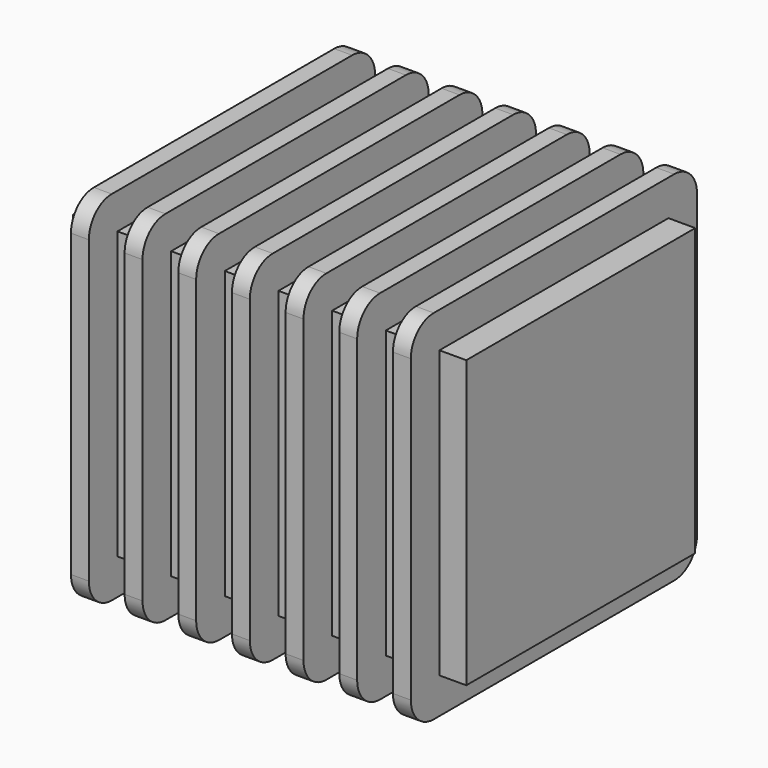
from build123d import *

# Parameters (mm, degrees)
F0_W      = 127
F0_H      = 50.8
F1_DEPTH  = 25.4
F3_DEPTH  = 31.75
F4_R      = 5.08
F5_R      = 5.08
F6_R      = 5.08
F7_R      = 5.08
F9_DEPTH  = 25.4
F8_W      = 57.15
F8_H      = 25.4
F10_DEPTH = 25.4
F11_W     = 57.15
F11_H     = 25.4
F12_DEPTH = 25.4
F13_DEPTH = 25.4
F14_R     = 5.08


with BuildPart() as f1:
    # F0 (on Front) → F1 (new body, symmetric)
    with BuildSketch(Plane.XZ):
        Rectangle(F0_W, F0_H)
    extrude(amount=F1_DEPTH, both=True)

    # F2 (on Front) → F3 (join, symmetric)
    with BuildSketch(Plane.XZ):
        Polygon((55.5625, 31.75), (55.5625, 0), (55.5625, -31.75), (58.7375, -31.75), (58.7375, 31.75), align=None)
        Polygon((46.0375, 31.75), (46.0375, 0), (47.625, 0), (49.2125, 0), (49.2125, 31.75), align=None)
        Polygon((36.5125, 31.75), (36.5125, 0), (38.1, 0), (39.6875, 0), (39.6875, 31.75), align=None)
        Polygon((26.9875, 31.75), (26.9875, 0), (28.575, 0), (30.1625, 0), (30.1625, 31.75), align=None)
        Polygon((17.4625, 31.75), (17.4625, 0), (19.05, 0), (20.6375, 0), (20.6375, 31.75), align=None)
        Polygon((7.9375, 31.75), (7.9375, 0), (9.525, 0), (11.1125, 0), (11.1125, 31.75), align=None)
        Polygon((1.5875, 31.75), (-1.5875, 31.75), (-1.5875, -31.75), (1.5875, -31.75), (1.5875, 0), align=None)
        Polygon((9.525, 0), (7.9375, 0), (7.9375, -31.75), (11.1125, -31.75), (11.1125, 0), align=None)
        Polygon((19.05, 0), (17.4625, 0), (17.4625, -31.75), (20.6375, -31.75), (20.6375, 0), align=None)
        Polygon((28.575, 0), (26.9875, 0), (26.9875, -31.75), (30.1625, -31.75), (30.1625, 0), align=None)
        Polygon((38.1, 0), (36.5125, 0), (36.5125, -31.75), (39.6875, -31.75), (39.6875, 0), align=None)
        Polygon((47.625, 0), (46.0375, 0), (46.0375, -31.75), (49.2125, -31.75), (49.2125, 0), align=None)
    extrude(amount=F3_DEPTH, both=True)

    # F4
    f4_edges = [f1.edges().sort_by_distance(p)[0] for p in [
        (0, -31.75, 31.75),
        (9.525, -31.75, 31.75),
        (19.05, -31.75, 31.75),
        (28.575, -31.75, 31.75),
        (38.1, -31.75, 31.75),
        (47.625, -31.75, 31.75),
        (57.15, -31.75, 31.75),
    ]]
    fillet(f4_edges, radius=F4_R)

    # F5
    f5_edges = [f1.edges().sort_by_distance(p)[0] for p in [
        (0, 31.75, 31.75),
        (9.525, 31.75, 31.75),
        (19.05, 31.75, 31.75),
        (28.575, 31.75, 31.75),
        (38.1, 31.75, 31.75),
        (47.625, 31.75, 31.75),
        (57.15, 31.75, 31.75),
    ]]
    fillet(f5_edges, radius=F5_R)

    # F6
    f6_edges = [f1.edges().sort_by_distance(p)[0] for p in [
        (57.15, 31.75, -31.75),
        (47.625, 31.75, -31.75),
        (38.1, 31.75, -31.75),
        (19.05, 31.75, -31.75),
        (28.575, 31.75, -31.75),
        (9.525, 31.75, -31.75),
        (0, 31.75, -31.75),
    ]]
    fillet(f6_edges, radius=F6_R)

    # F7
    f7_edges = [f1.edges().sort_by_distance(p)[0] for p in [
        (9.525, -31.75, -31.75),
        (19.05, -31.75, -31.75),
        (28.575, -31.75, -31.75),
        (38.1, -31.75, -31.75),
        (47.625, -31.75, -31.75),
        (57.15, -31.75, -31.75),
    ]]
    fillet(f7_edges, radius=F7_R)

    # F9 (cut): a face of the model
    f9_faces = [f1.faces().sort_by_distance(p)[0] for p in [
        (-32.54375, 0, 25.4),
    ]]
    extrude(f9_faces, amount=-F9_DEPTH, mode=Mode.SUBTRACT)

    # F8 (on Top) → F10 (cut)
    with BuildSketch(Plane.XY):
        with Locations((-34.925, 12.7)):
            Rectangle(F8_W, F8_H)
    extrude(amount=-F10_DEPTH, mode=Mode.SUBTRACT)

    # F11 (on Top) → F12 (cut)
    with BuildSketch(Plane.XY):
        with Locations((-34.925, -12.7)):
            Rectangle(F11_W, F11_H)
    extrude(amount=-F12_DEPTH, mode=Mode.SUBTRACT)

    # F13 (add): a face of the model
    f13_faces = [f1.faces().sort_by_distance(p)[0] for p in [
        (-3.96875, 0, 0),
    ]]
    extrude(f13_faces, amount=F13_DEPTH)

    # F14
    f14_edges = [f1.edges().sort_by_distance(p)[0] for p in [
        (0, -31.75, -31.75),
    ]]
    fillet(f14_edges, radius=F14_R)


solid = f1.part
